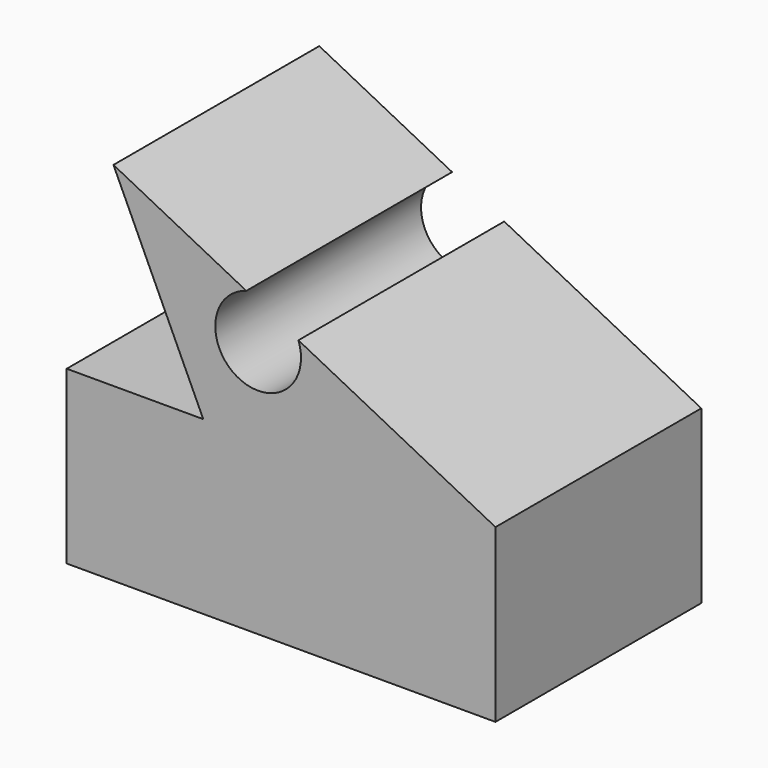
from build123d import *

# Parameters (mm, degrees)
F1_DEPTH = 76.2
F3_DEPTH = 76.2


with BuildPart() as f1:
    # F0 (on Front) → F1 (new body)
    with BuildSketch(Plane.XZ):
        Polygon((-53.2485639434, 20.8673768507), (-93.690353318, 20.8673768507), (-93.690353318, -29.9326231493), (33.309646682, -29.9326231493), (33.309646682, 20.8673768507), (-79.845845357, 78.5287557919), align=None)
    extrude(amount=F1_DEPTH)

    # F2 (on face) → F3 (cut, through all)
    with BuildSketch(Plane.XZ.offset(76.2)):
        with BuildLine():
            ThreePointArc((-40.4930580295, 58.4755003856), (-44.6360080249, 36.1248150436), (-24.2928123588, 46.2673768507))
            ThreePointArc((-24.2928123588, 46.2673768507), (-24.4856960325, 48.4723805244), (-25.0584881385, 50.6104063699))
            Line((-25.0584881385, 50.6104063699), (-40.4930580295, 58.4755003856))
        make_face()
    extrude(amount=-F3_DEPTH, mode=Mode.SUBTRACT)


solid = f1.part
